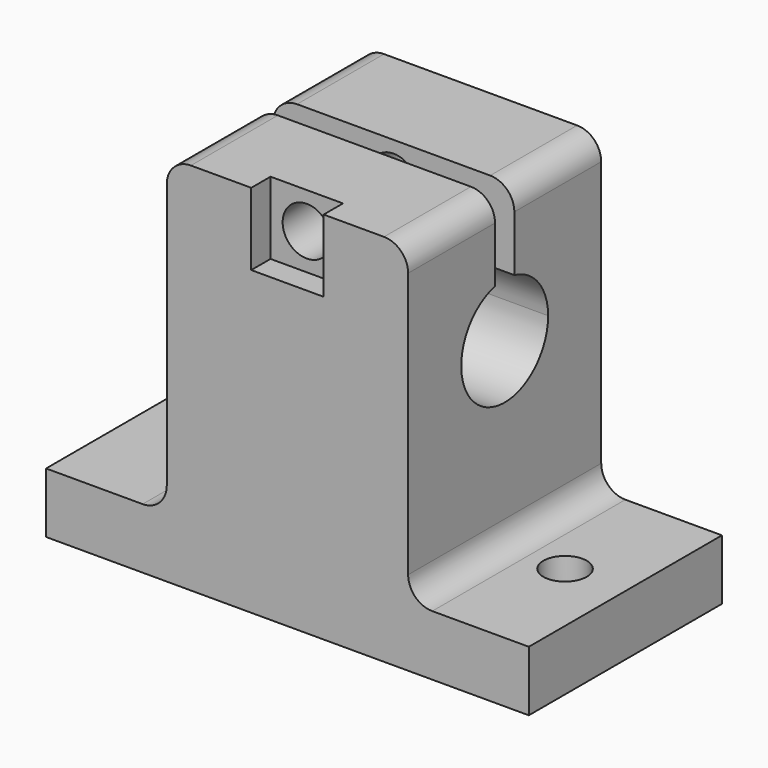
from build123d import *

# Parameters (mm, degrees)
F1_DEPTH = 20
F2_R     = 1.8
F3_DEPTH = 25
F5_DEPTH = 25
F7_DEPTH = 6
F8_R     = 2
F9_DEPTH = 25
F10_R    = 2


with BuildPart() as f1:
    # F0 (on Front) → F1 (new body)
    with BuildSketch(Plane.XZ):
        Polygon((10, 31), (-10, 31), (-10, 5), (-20, 5), (-20, 0), (20, 0), (20, 5), (10, 5), align=None)
    extrude(amount=F1_DEPTH)

    # F2 (on face) → F3 (cut)
    with BuildSketch(Plane(origin=(0, 0, 0), x_dir=(1, 0, 0), z_dir=(0, 0, -1))):
        with Locations((-15, 10)):
            Circle(F2_R)
        with Locations((15, 10)):
            Circle(F2_R)
    extrude(amount=-F3_DEPTH, mode=Mode.SUBTRACT)

    # F4 (on face) → F5 (cut)
    with BuildSketch(Plane.YZ.offset(10)):
        with BuildLine():
            ThreePointArc((-11, 24.3874821937), (-12.8062430401, 16.4821881801), (-5.5, 20))
            ThreePointArc((-5.5, 20), (-6.4821881801, 22.8062430401), (-9, 24.3874821937))
            Line((-9, 24.3874821937), (-9, 20))
            Line((-9, 20), (-10, 20))
            Line((-10, 20), (-11, 20))
            Line((-11, 20), (-11, 24.3874821937))
        make_face()
        with BuildLine():
            ThreePointArc((-11, 24.3874821937), (-10, 24.5), (-9, 24.3874821937))
            Line((-9, 24.3874821937), (-9, 31))
            Line((-9, 31), (-11, 31))
            Line((-11, 31), (-11, 24.3874821937))
        make_face()
        with BuildLine():
            Line((-9, 20), (-9, 24.3874821937))
            ThreePointArc((-9, 24.3874821937), (-10, 24.5), (-11, 24.3874821937))
            Line((-11, 24.3874821937), (-11, 20))
            Line((-11, 20), (-10, 20))
            Line((-10, 20), (-9, 20))
        make_face()
    extrude(amount=-F5_DEPTH, mode=Mode.SUBTRACT)

    # F6 (on face) → F7 (cut)
    with BuildSketch(Plane.XY.offset(31)):
        Polygon((-3, -18), (-3, -20), (3, -20), (3, -18), (0, -18), align=None)
    extrude(amount=-F7_DEPTH, mode=Mode.SUBTRACT)

    # F8 (on face) → F9 (cut)
    with BuildSketch(Plane.XZ.offset(18)):
        with Locations((0, 28)):
            Circle(F8_R)
    extrude(amount=-F9_DEPTH, mode=Mode.SUBTRACT)

    # F10
    f10_edges = [f1.edges().sort_by_distance(p)[0] for p in [
        (10, -15.5, 31),
        (10, -4.5, 31),
        (-10, -4.5, 31),
        (-10, -15.5, 31),
        (10, -10, 5),
        (-10, -10, 5),
    ]]
    fillet(f10_edges, radius=F10_R)


solid = f1.part
